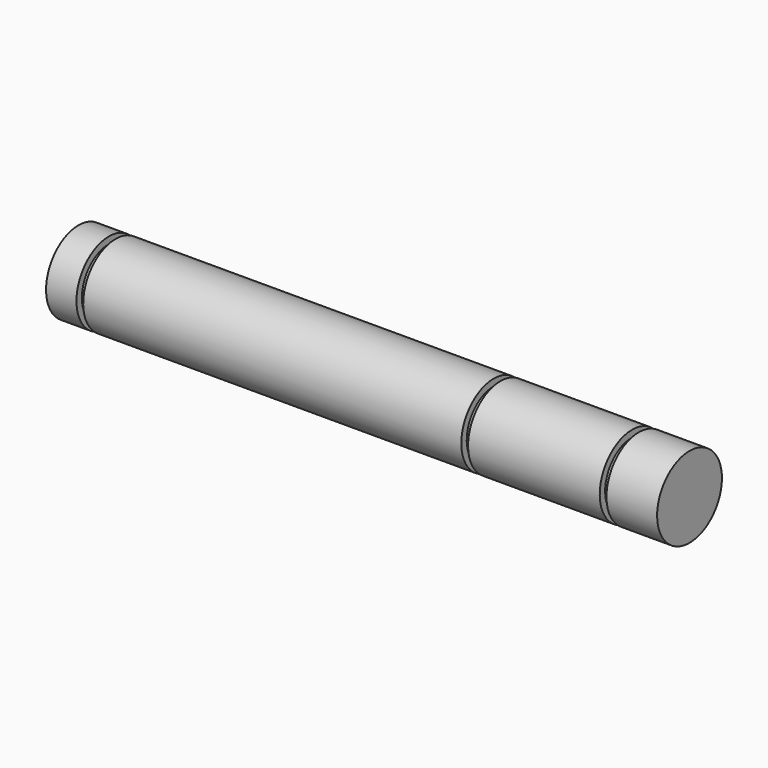
from build123d import *


with BuildPart() as f1:
    # F0 (on Front) → F1 (revolve)
    with BuildSketch(Plane.XZ):
        Polygon((90.5, -6), (90.5, 0), (83, 0), (83, -1), (82, -1), (82, 0), (64.5, 0), (62.5, 0), (62.5, -1), (61.5, -1), (61.5, 0), (5.5, 0), (5.5, -1), (4.5, -1), (4.5, 0), (0, 0), (0, -6), align=None)
    revolve(axis=Axis((47.474664, 0, -6), (1, 0, 0)))


solid = f1.part
